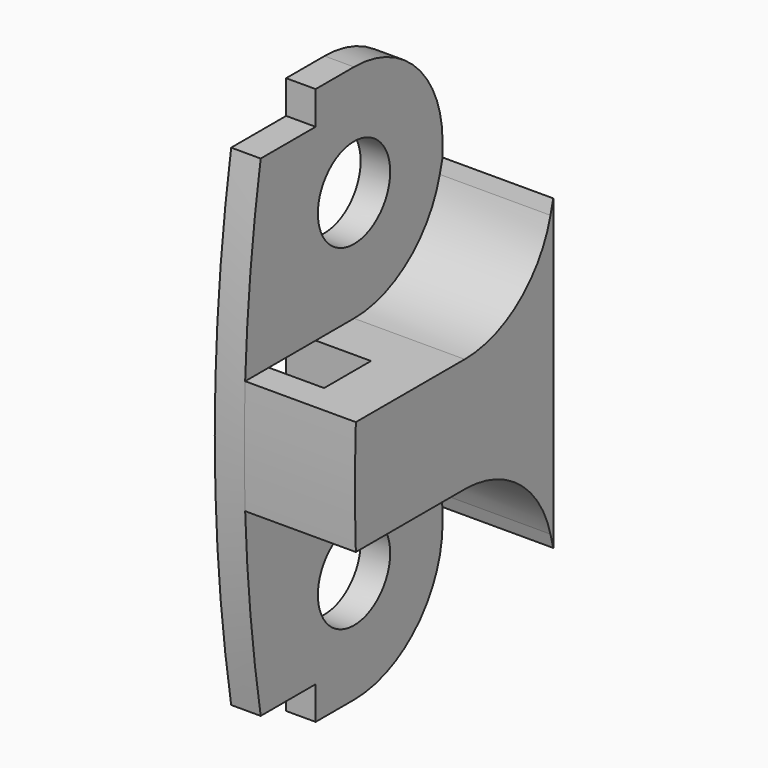
from build123d import *

# Parameters (mm, degrees)
SKETCH007_R          = 2.45
PAD005_DEPTH         = 1.6
PAD006_DEPTH         = 6
SKETCH058_W          = 3.1771358599
SKETCH058_H          = 6.2
POCKET021_DEPTH      = 1.6
POCKET021_DEPTH_BACK = 3


with BuildPart() as part:
    # Sketch007 → Pad005 (new body)
    with BuildSketch(Plane.YZ.offset(8.7)):
        with BuildLine():
            ThreePointArc((-6, 6), (-7.4371881489, -9.1), (-6, -24.2))
            Line((-6, -24.2), (0, -24.2))
            ThreePointArc((0, -24.2), (4.2426406871, -22.4426406871), (6, -18.2))
            Line((6, 0), (6, -18.2))
            ThreePointArc((6, 0), (4.2426406871, 4.2426406871), (0, 6))
            Line((-6, 6), (0, 6))
        make_face()
        Circle(SKETCH007_R, mode=Mode.SUBTRACT)
        with Locations((0, -18.2)):
            Circle(SKETCH007_R, mode=Mode.SUBTRACT)
    extrude(amount=-PAD005_DEPTH)

    # Sketch008 → Pad006 (join)
    with BuildSketch(Plane.YZ.offset(8.7)):
        with BuildLine():
            ThreePointArc((5.8114989668, -16.707860677), (3.6774423219, -13.4590699257), (0, -12.2))
            Line((-7.3771358599, -12.2), (0, -12.2))
            ThreePointArc((-7.3771358599, -6), (-7.4371881489, -9.1), (-7.3771358599, -12.2))
            Line((-7.3771358599, -6), (0, -6))
            ThreePointArc((0, -6), (3.6774423219, -4.7409300743), (5.8114989668, -1.492139323))
            Line((5.8114989668, -1.492139323), (6, -0.7579762707))
            Line((6, -0.7579762707), (6, -17.4420237293))
            Line((6, -17.4420237293), (5.8114989668, -16.707860677))
        make_face()
    extrude(amount=PAD006_DEPTH)

    # Sketch058 → Pocket021 (cut, two sides)
    with BuildSketch(Plane.YZ.offset(8.7)) as pocket021_sk:
        with BuildLine():
            Line((-2.6, 6), (-6, 6))
            ThreePointArc((-6, 6), (-6.167388681, 5.1009268767), (-6.3244944235, 4.2))
            Line((-2.6, 4.2), (-6.3244944235, 4.2))
            Line((-2.6, 6), (-2.6, 4.2))
        make_face()
        with BuildLine():
            Line((-6, -24.2), (-2.6, -24.2))
            Line((-2.6, -24.2), (-2.6, -22.4))
            Line((-2.6, -22.4), (-6.3244944235, -22.4))
            ThreePointArc((-6.3244944235, -22.4), (-6.167388681, -23.3009268767), (-6, -24.2))
        make_face()
        with Locations((-4.18856793, -9.1)):
            Rectangle(SKETCH058_W, SKETCH058_H)
    extrude(amount=-POCKET021_DEPTH, mode=Mode.SUBTRACT)
    extrude(pocket021_sk.sketch, amount=POCKET021_DEPTH_BACK, mode=Mode.SUBTRACT)


with BuildPart() as part_1:
    # Body006 placement: moved
    add(part.part.moved(Location((0, -72.6064407756, 0))))


solid = part_1.part
